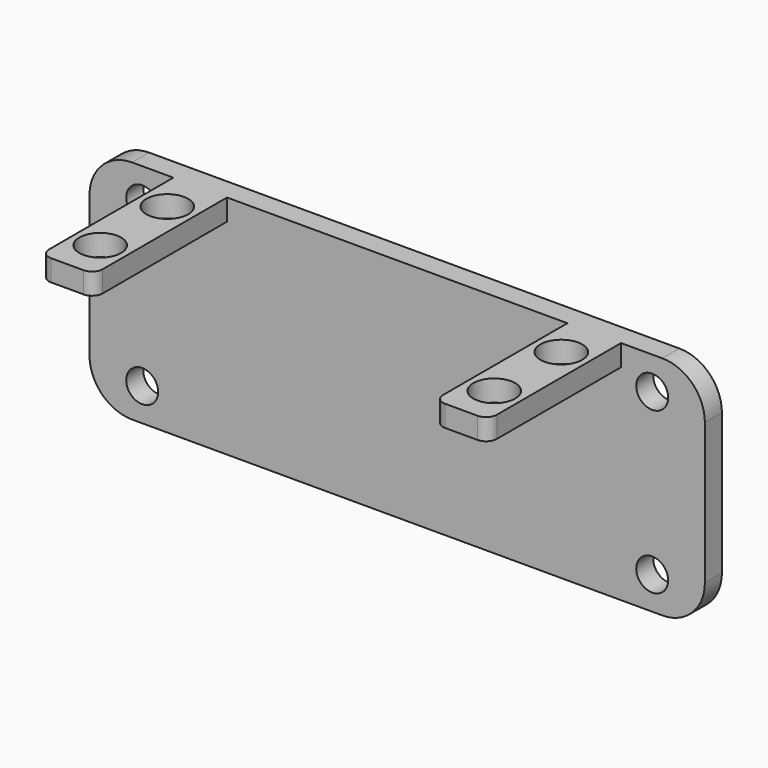
from build123d import *

# Parameters (mm, degrees)
F1_DEPTH = 27
F0_W     = 6.4
F0_H     = 19.8
F0_R     = 2.5
F2_DEPTH = 2.54
F3_R     = 5.08
F5_D     = 3.81
F6_R     = 1.27


with BuildPart() as f1:
    # F0 (on Top) → F1 (new body)
    with BuildSketch(Plane.XY):
        Polygon((36.7, 1.27), (26.7, 1.27), (-26.7, 1.27), (-36.7, 1.27), (-36.7, -1.27), (-26.7, -1.27), (-20.3, -1.27), (20.3, -1.27), (26.7, -1.27), (36.7, -1.27), align=None)
    extrude(amount=-F1_DEPTH)

    # F0 (on Top) → F2 (join)
    with BuildSketch(Plane.XY):
        with Locations((-23.5, -11.17)):
            Rectangle(F0_W, F0_H)
        with Locations((-23.5, -16.17)):
            Circle(F0_R, mode=Mode.SUBTRACT)
        with Locations((-23.5, -6.17)):
            Circle(F0_R, mode=Mode.SUBTRACT)
        with Locations((23.5, -11.17)):
            Rectangle(F0_W, F0_H)
        with Locations((23.5, -16.17)):
            Circle(F0_R, mode=Mode.SUBTRACT)
        with Locations((23.5, -6.17)):
            Circle(F0_R, mode=Mode.SUBTRACT)
    extrude(amount=-F2_DEPTH)

    # F3
    f3_edges = [f1.edges().sort_by_distance(p)[0] for p in [
        (-36.7, 0, 0),
        (36.7, 0, 0),
        (36.7, 0, -27),
        (-36.7, 0, -27),
    ]]
    fillet(f3_edges, radius=F3_R)

    # F5 (through all)
    with Locations(Plane.XZ.offset(1.27)):
        with Locations((-30.41523, -3.90541), (-30.41523, -23.09459), (30.41523, -3.90541), (30.41523, -23.09459)):
            Hole(F5_D / 2)

    # F6
    f6_edges = [f1.edges().sort_by_distance(p)[0] for p in [
        (-20.3, -21.07, -1.27),
        (-26.7, -21.07, -1.27),
        (20.3, -21.07, -1.27),
        (26.7, -21.07, -1.27),
    ]]
    fillet(f6_edges, radius=F6_R)


solid = f1.part
